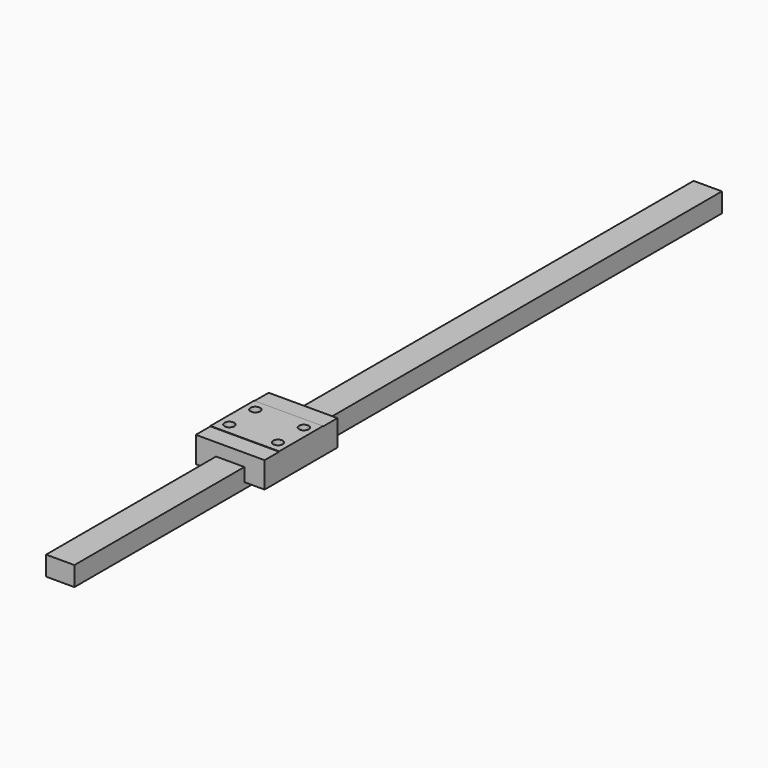
from build123d import *

# Parameters (mm, degrees)
SKETCH014_W     = 7
SKETCH014_H     = 4.8
PAD004_DEPTH    = 200
SKETCH015_W     = 17
SKETCH015_H     = 22.5
PAD005_DEPTH    = 6.5
SKETCH016_W     = 17
SKETCH016_H     = 4.5
POCKET010_DEPTH = 0.1
SKETCH017_R     = 1.2
POCKET011_DEPTH = 2.5


with BuildPart() as part:
    # Sketch014 → Pad004 (new body)
    with BuildSketch(Plane.XZ):
        with Locations((3.5, 2.4)):
            Rectangle(SKETCH014_W, SKETCH014_H)
    extrude(amount=-PAD004_DEPTH)

    # Sketch015 (on Face1 of Pad004) → Pad005 (join)
    with BuildSketch(Plane(origin=(0, 0, 1.5), x_dir=(-1, 0, 0), z_dir=(0, 0, 1))):
        with Locations((-3.5, -63.75)):
            Rectangle(SKETCH015_W, SKETCH015_H)
    extrude(amount=PAD005_DEPTH)

    # Sketch016 (on Face13 of Pad005) → Pocket010 (cut)
    with BuildSketch(Plane(origin=(0, 0, 8), x_dir=(-1, 0, 0), z_dir=(0, 0, 1))):
        with Locations((-3.5, -54.75)):
            Rectangle(SKETCH016_W, SKETCH016_H)
        with Locations((-3.5, -72.75)):
            Rectangle(SKETCH016_W, SKETCH016_H)
    extrude(amount=-POCKET010_DEPTH, mode=Mode.SUBTRACT)

    # Sketch017 (on Face17 of Pocket010) → Pocket011 (cut)
    with BuildSketch(Plane(origin=(0, 0, 8), x_dir=(-1, 0, 0), z_dir=(0, 0, 1))):
        with Locations((-9.5, -59.75)):
            Circle(SKETCH017_R)
        with Locations((2.5, -59.75)):
            Circle(SKETCH017_R)
        with Locations((2.5, -67.75)):
            Circle(SKETCH017_R)
        with Locations((-9.5, -67.75)):
            Circle(SKETCH017_R)
    extrude(amount=-POCKET011_DEPTH, mode=Mode.SUBTRACT)


solid = part.part
